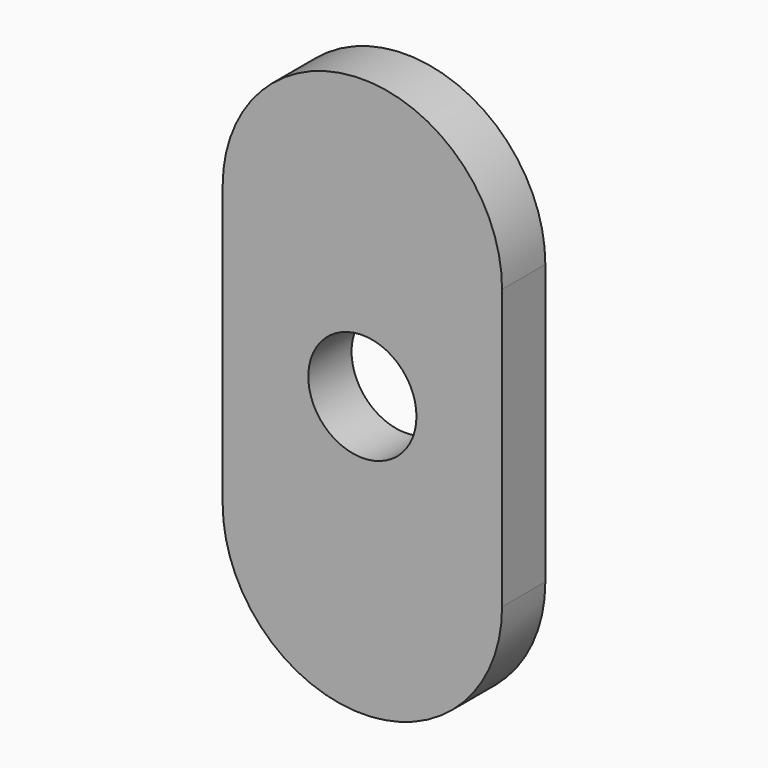
from build123d import *

# Parameters (mm, degrees)
F0_W     = 15.5
F0_H     = 15.5
F0_R     = 3
F1_DEPTH = 3


with BuildPart() as f1:
    # F0 (on Front) → F1 (new body)
    with BuildSketch(Plane.XZ):
        with BuildLine():
            ThreePointArc((7.75, 7.75), (0, 15.5), (-7.75, 7.75))
            Line((-7.75, 7.75), (7.75, 7.75))
        make_face()
        Rectangle(F0_W, F0_H)
        Circle(F0_R, mode=Mode.SUBTRACT)
        with BuildLine():
            Line((7.75, -7.75), (-7.75, -7.75))
            ThreePointArc((-7.75, -7.75), (0, -15.5), (7.75, -7.75))
        make_face()
    extrude(amount=F1_DEPTH)


solid = f1.part
